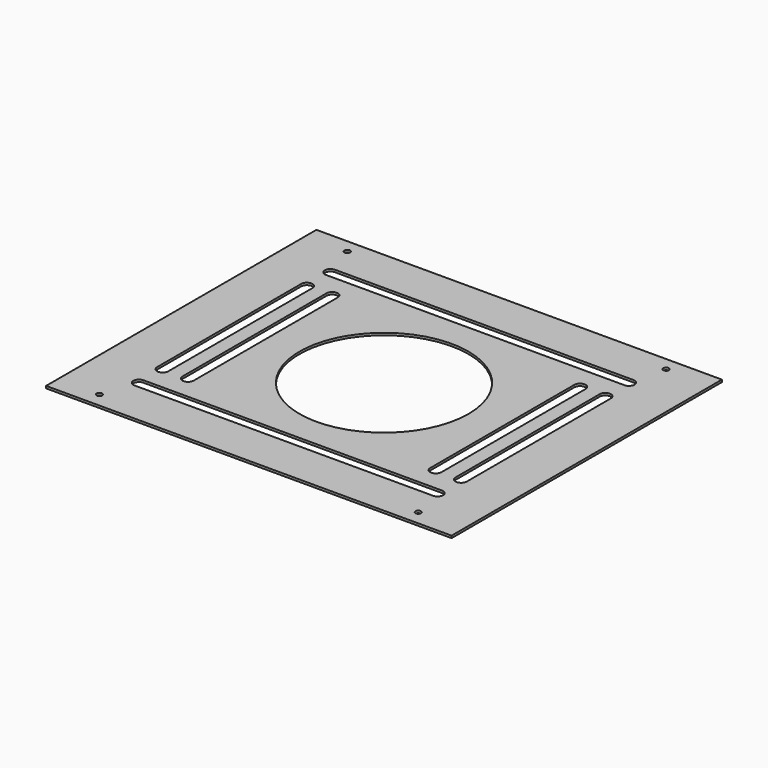
from build123d import *

# Parameters (mm, degrees)
F0_W     = 360
F0_H     = 300
F0_R     = 2.5
F0_R_2   = 75
F1_DEPTH = 2


with BuildPart() as f1:
    # F0 (on Top) → F1 (new body)
    with BuildSketch(Plane.XY):
        with Locations((180, 150)):
            Rectangle(F0_W, F0_H)
        with Locations((37, 13)):
            Circle(F0_R, mode=Mode.SUBTRACT)
        with BuildLine():
            Line((312.5, 38.75), (47.5, 38.75))
            ThreePointArc((47.5, 38.75), (42.5, 43.75), (47.5, 48.75))
            Line((47.5, 48.75), (312.5, 48.75))
            ThreePointArc((312.5, 48.75), (317.5, 43.75), (312.5, 38.75))
        make_face(mode=Mode.SUBTRACT)
        with Locations((320, 13)):
            Circle(F0_R, mode=Mode.SUBTRACT)
        with BuildLine():
            Line((42.5, 70), (42.5, 230))
            ThreePointArc((42.5, 230), (47.5, 235), (52.5, 230))
            Line((52.5, 230), (52.5, 70))
            ThreePointArc((52.5, 70), (47.5, 65), (42.5, 70))
        make_face(mode=Mode.SUBTRACT)
        with BuildLine():
            Line((65, 70), (65, 230))
            ThreePointArc((65, 230), (70, 235), (75, 230))
            Line((75, 230), (75, 70))
            ThreePointArc((75, 70), (70, 65), (65, 70))
        make_face(mode=Mode.SUBTRACT)
        with Locations((37, 288)):
            Circle(F0_R, mode=Mode.SUBTRACT)
        with Locations((180, 150)):
            Circle(F0_R_2, mode=Mode.SUBTRACT)
        with BuildLine():
            Line((285, 70), (285, 230))
            ThreePointArc((285, 230), (290, 235), (295, 230))
            Line((295, 230), (295, 70))
            ThreePointArc((295, 70), (290, 65), (285, 70))
        make_face(mode=Mode.SUBTRACT)
        with BuildLine():
            Line((307.5, 70), (307.5, 230))
            ThreePointArc((307.5, 230), (312.5, 235), (317.5, 230))
            Line((317.5, 230), (317.5, 70))
            ThreePointArc((317.5, 70), (312.5, 65), (307.5, 70))
        make_face(mode=Mode.SUBTRACT)
        with BuildLine():
            Line((312.5, 251.25), (47.5, 251.25))
            ThreePointArc((47.5, 251.25), (42.5, 256.25), (47.5, 261.25))
            Line((47.5, 261.25), (312.5, 261.25))
            ThreePointArc((312.5, 261.25), (317.5, 256.25), (312.5, 251.25))
        make_face(mode=Mode.SUBTRACT)
        with Locations((320, 288)):
            Circle(F0_R, mode=Mode.SUBTRACT)
    extrude(amount=F1_DEPTH)


solid = f1.part
